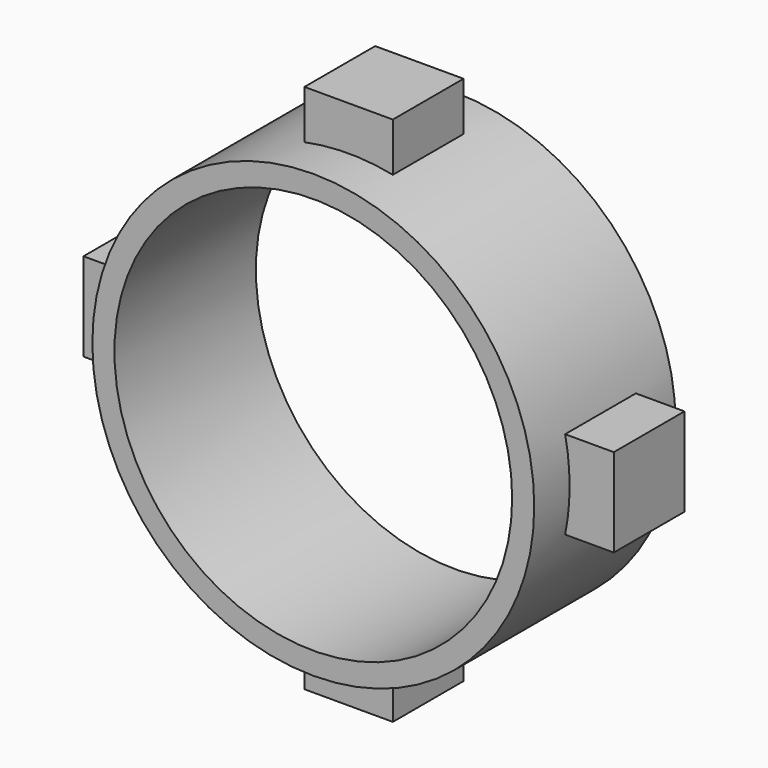
from build123d import *

# Parameters (mm, degrees)
F0_R     = 31.75
F0_R_2   = 28.575
F1_DEPTH = 25.4
F3_W     = 12.7
F3_H     = 7.62
F3_W_2   = 7.62
F3_H_2   = 12.7
F4_DEPTH = 12.7


with BuildPart() as f1:
    # F0 (on Front) → F1 (new body)
    with BuildSketch(Plane.XZ):
        Circle(F0_R)
        Circle(F0_R_2, mode=Mode.SUBTRACT)
    extrude(amount=F1_DEPTH)

    # F3 (on offset) → F4 (join)
    with BuildSketch(Plane.XZ.offset(6.35)):
        with Locations((0, 34.29)):
            Rectangle(F3_W, F3_H)
        with Locations((34.29, 0)):
            Rectangle(F3_W_2, F3_H_2)
        with Locations((-34.29, 0)):
            Rectangle(F3_W_2, F3_H_2)
        with Locations((0, -34.29)):
            Rectangle(F3_W, F3_H)
    extrude(amount=F4_DEPTH)


solid = f1.part
